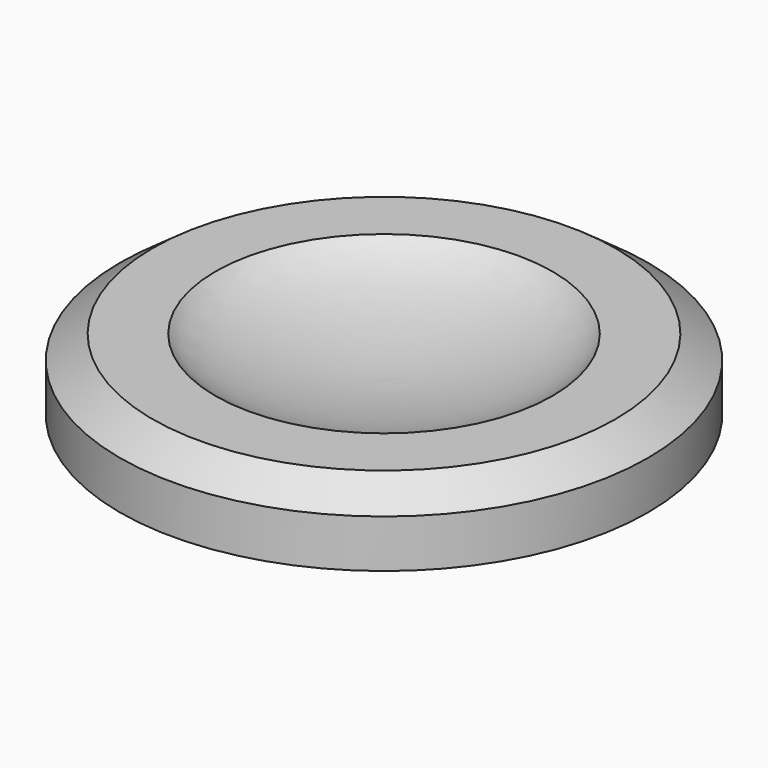
from build123d import *

# Parameters (mm, degrees)
F0_W = 3.4
F0_H = 3.5


with BuildPart() as f1:
    # F0 (on Front) → F1 (revolve)
    with BuildSketch(Plane.XZ):
        with BuildLine():
            Line((-3.4, 0), (0, 0))
            Line((0, 0), (0, 1.196084))
            add(Edge.make_bspline(
                [(-7.019112, 2.976599), (-5.660781, 1.544845), (-1.181959, 1.104305), (0, 1.196084)],
                knots=[0, 0, 0, 0, 7.24142, 7.24142, 7.24142, 7.24142], degree=3))
            Line((-7.019112, 2.976599), (-9.639874, 2.976599))
            Line((-9.639874, 2.976599), (-11, 2))
            Line((-11, 2), (-11, 0))
            Line((-11, 0), (-4.552201, 0))
            Line((-4.552201, 0), (-3.4, 0))
        make_face()
        with Locations((-1.7, -1.75)):
            Rectangle(F0_W, F0_H)
    revolve(axis=Axis((0, 0, -1.75), (0, 0, -1)))


solid = f1.part
